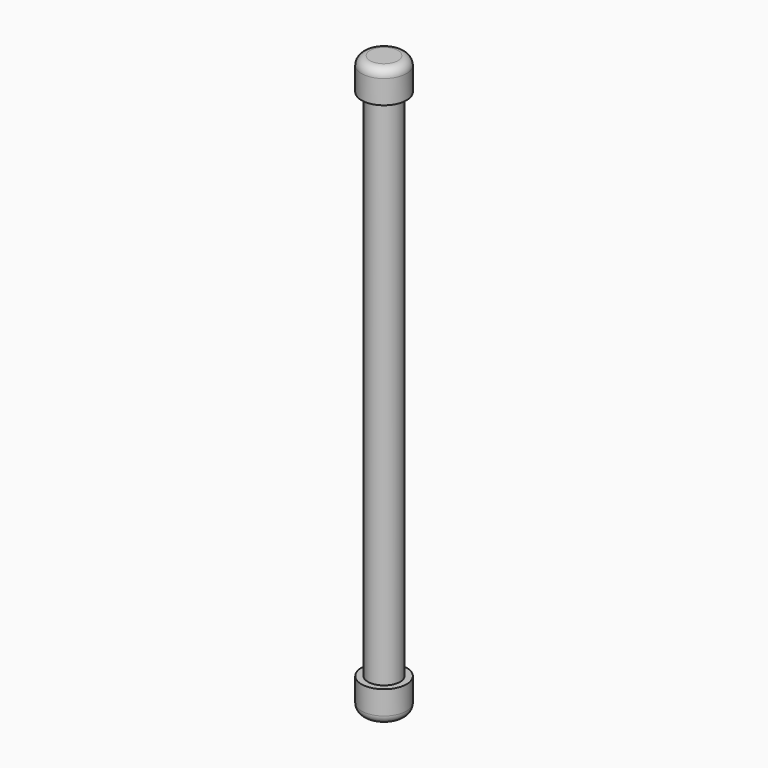
from build123d import *

# Parameters (mm, degrees)
F0_R     = 2.38125
F1_DEPTH = 76.2
F2_R     = 3.33375
F3_DEPTH = 4.7625
F4_R     = 3.33375
F5_DEPTH = 4.7625
F6_R     = 1.27
F7_R     = 1.27


with BuildPart() as f1:
    # F0 (on Top) → F1 (new body)
    with BuildSketch(Plane.XY):
        with Locations((-29.110117, -9.703373)):
            Circle(F0_R)
    extrude(amount=F1_DEPTH)

    # F2 (on face) → F3 (join)
    with BuildSketch(Plane.XY.offset(76.2)):
        with Locations((-29.110117, -9.703373)):
            Circle(F2_R)
    extrude(amount=F3_DEPTH)

    # F4 (on face) → F5 (join)
    with BuildSketch(Plane(origin=(0, 0, 0), x_dir=(1, 0, 0), z_dir=(0, 0, -1))):
        with Locations((-29.110117, 9.703373)):
            Circle(F4_R)
    extrude(amount=F5_DEPTH)

    # F6
    f6_edges = [f1.edges().sort_by_distance(p)[0] for p in [
        (-32.443867, -9.703373, -4.7625),
    ]]
    fillet(f6_edges, radius=F6_R)

    # F7
    f7_edges = [f1.edges().sort_by_distance(p)[0] for p in [
        (-32.443867, -9.703373, 80.9625),
    ]]
    fillet(f7_edges, radius=F7_R)


solid = f1.part
